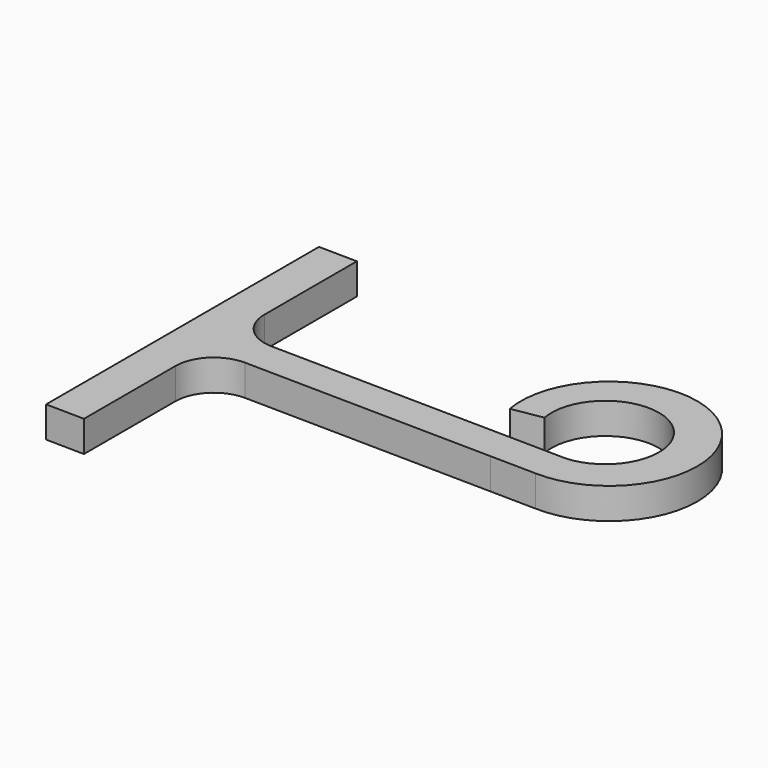
from build123d import *

# Parameters (mm, degrees)
F1_DEPTH = 2.0574
F2_R     = 2.54


with BuildPart() as f1:
    # F0 (on Top) → F1 (new body)
    with BuildSketch(Plane.XY):
        Polygon((-19.05, -6.831449), (0, -7.122084), (0, -4.836785), (-19.05, -4.546149), (-19.05, 5.615033), (-21.59, 5.653784), (-21.59, -16.95388), (-19.05, -16.992631), align=None)
        with BuildLine():
            Line((0, -7.122084), (3.032153, -7.168344))
            ThreePointArc((3.032153, -7.168344), (7.041994, 3.104817), (-2.545553, -2.344551))
            Line((-2.545553, -2.344551), (-0.515844, -2.007228))
            ThreePointArc((-0.515844, -2.007228), (5.158216, 1.472099), (3.187775, -4.885419))
            Line((3.187775, -4.885419), (0, -4.836785))
            Line((0, -4.836785), (0, -7.122084))
        make_face()
    extrude(amount=F1_DEPTH)

    # F2
    f2_edges = [f1.edges().sort_by_distance(p)[0] for p in [
        (-19.05, -6.831449, 1.0287),
        (-19.05, -4.546149, 1.0287),
    ]]
    fillet(f2_edges, radius=F2_R)


solid = f1.part
